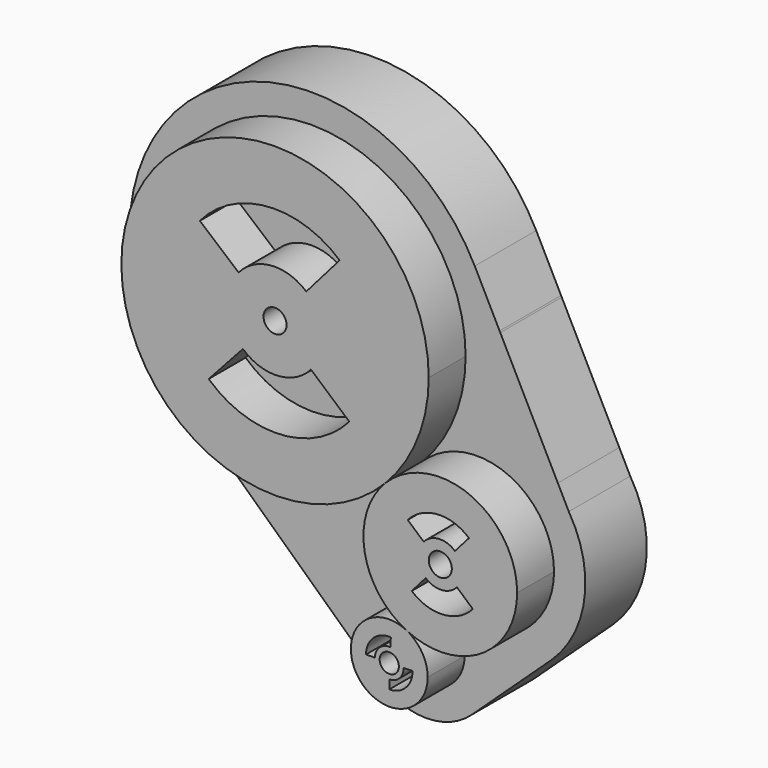
from build123d import *

# Parameters (mm, degrees)
F0_R     = 1.5
F1_DEPTH = 6
F0_R_2   = 1.25
F2_DEPTH = 10


with BuildPart() as f1:
    # F0 (on Front) → F1 (new body)
    with BuildSketch(Plane.XZ):
        with BuildLine():
            ThreePointArc((16.3580985837, 35.9408579887), (-22.1718407809, 43.466902577), (10.6939638692, 21.9951430011))
            ThreePointArc((10.6939638692, 21.9951430011), (14.8880379483, 28.4148134004), (16.3580985837, 35.9408579887))
        make_face()
        with BuildLine():
            ThreePointArc((6.0273938907, 27.5315641069), (-2.9016900494, 23.1477511551), (-12.2767915919, 26.4724807793))
            Line((-12.2767915919, 26.4724807793), (-7.8142975918, 31.3657192142))
            ThreePointArc((-7.8142975918, 31.3657192142), (-3.2842298057, 29.7592032207), (1.0303213842, 31.8774703929))
            Line((1.0303213842, 31.8774703929), (6.0273938907, 27.5315641069))
        make_face(mode=Mode.SUBTRACT)
        with Locations((-3.6419014163, 35.9408579887)):
            Circle(F0_R, mode=Mode.SUBTRACT)
        with BuildLine():
            Line((-8.3717686573, 39.9369986937), (-13.4304934995, 44.2109825557))
            ThreePointArc((-13.4304934995, 44.2109825557), (-4.624263657, 48.7176517866), (4.7673924656, 45.6101532957))
            Line((4.7673924656, 45.6101532957), (0.4214861795, 40.6130807892))
            ThreePointArc((0.4214861795, 40.6130807892), (-4.1165808127, 42.1146302652), (-8.3717686573, 39.9369986937))
        make_face(mode=Mode.SUBTRACT)
    extrude(amount=F1_DEPTH)


with BuildPart() as f1b:
    # F0 (on Front) → F1, piece 2 (new body)
    with BuildSketch(Plane.XZ):
        with BuildLine():
            ThreePointArc((13.435691954, 6.055194912), (23.1410041166, 6.529287036), (27.8618964924, 15.0222854872))
            ThreePointArc((27.8618964924, 15.0222854872), (21.6249187996, 24.2872551642), (10.6939638692, 21.9951430011))
            ThreePointArc((10.6939638692, 21.9951430011), (8.0066192055, 13.3271425439), (13.435691954, 6.055194912))
        make_face()
        with BuildLine():
            ThreePointArc((22.093804723, 11.2920162674), (18.2266093558, 9.392814797), (14.1466855378, 10.7771514154))
            Line((14.1466855378, 10.7771514154), (15.9656262669, 12.8555387151))
            ThreePointArc((15.9656262669, 12.8555387151), (18.0480485447, 12.1489634106), (20.0218927007, 13.1183294155))
            Line((20.0218927007, 13.1183294155), (22.093804723, 11.2920162674))
        make_face(mode=Mode.SUBTRACT)
        with Locations((17.8618964924, 15.0222854872)):
            Circle(F0_R, mode=Mode.SUBTRACT)
        with BuildLine():
            Line((21.5921657123, 19.2541937178), (19.7658525641, 17.1822816954))
            ThreePointArc((19.7658525641, 17.1822816954), (17.6803835082, 17.8959043518), (15.7012838619, 16.9255420131))
            Line((15.7012838619, 16.9255420131), (13.6287805547, 18.7511841427))
            ThreePointArc((13.6287805547, 18.7511841427), (17.5062725849, 20.6523376505), (21.5921657123, 19.2541937178))
        make_face(mode=Mode.SUBTRACT)
    extrude(amount=F1_DEPTH)


with BuildPart() as f1c:
    # F0 (on Front) → F1, piece 3 (new body)
    with BuildSketch(Plane.XZ):
        with BuildLine():
            ThreePointArc((16.2225897462, 1.5716495941), (15.4690889537, 4.2112034353), (13.435691954, 6.055194912))
            ThreePointArc((13.435691954, 6.055194912), (6.9760905387, -1.0679042471), (16.2225897462, 1.5716495941))
        make_face()
        with BuildLine():
            ThreePointArc((14.243500535, 1.6553022013), (13.3888888582, -0.5354925249), (11.2225897462, -1.4504191928))
            Line((11.2225897462, -1.4504191928), (11.2225897462, -0.2917109707))
            ThreePointArc((11.2225897462, -0.2917109707), (12.5582960526, 0.2724185686), (13.0852363074, 1.6232284893))
            Line((13.0852363074, 1.6232284893), (14.243500535, 1.6553022013))
        make_face(mode=Mode.SUBTRACT)
        with Locations((11.2225897462, 1.5716495941)):
            Circle(F0_R_2, mode=Mode.SUBTRACT)
        with BuildLine():
            Line((11.4274693125, 4.5867655315), (11.3489152971, 3.4307231402))
            ThreePointArc((11.3489152971, 3.4307231402), (9.950441456, 2.9331749601), (9.3592291814, 1.5716495941))
            Line((9.3592291814, 1.5716495941), (8.2005209593, 1.5716495941))
            ThreePointArc((8.2005209593, 1.5716495941), (9.1593714337, 3.7798230356), (11.4274693125, 4.5867655315))
        make_face(mode=Mode.SUBTRACT)
    extrude(amount=F1_DEPTH)


with BuildPart() as f2:
    # F0 (on Front) → F2 (new body)
    with BuildSketch(Plane.XZ):
        with BuildLine():
            Line((20.7791233288, 40.2880805518), (17.5451188249, 46.6727111977))
            ThreePointArc((17.5451188249, 46.6727111977), (-17.9128327561, 54.9251414541), (-19.8385976064, 18.5704943619))
            Line((-19.8385976064, 18.5704943619), (-10.2095571952, 9.5920615846))
            Line((-10.2095571952, 9.5920615846), (-7.1513450091, 12.8718821787))
            Line((-7.1513450091, 12.8718821787), (3.2381131314, 12.8718821787))
            Line((3.2381131314, 12.8718821787), (3.2381131314, 0))
            Line((3.2381131314, 0), (1.7682181228, -1.5764085769))
            Line((1.7682181228, -1.5764085769), (5.2553858867, -4.8279580579))
            ThreePointArc((5.2553858867, -4.8279580579), (11.2167692255, -7.17834847), (17.1812742584, -4.8358911888))
            Line((17.1812742584, -4.8358911888), (27.5374240602, 4.7947973267))
            ThreePointArc((27.5374240602, 4.7947973267), (31.8291700474, 13.2523653679), (29.7826724027, 22.5131098402))
            Line((29.7826724027, 22.5131098402), (28.3577955273, 25.3261277423))
            Line((28.3577955273, 25.3261277423), (20.8670881614, 28.5439335322))
            Line((20.8670881614, 28.5439335322), (20.8670881614, 40.1144187757))
            Line((20.8670881614, 40.1144187757), (20.7791233288, 40.2880805518))
        make_face()
        with BuildLine():
            ThreePointArc((16.2225897462, 1.5716495941), (6.9760905387, -1.0679042471), (13.435691954, 6.055194912))
            ThreePointArc((13.435691954, 6.055194912), (15.4690889537, 4.2112034353), (16.2225897462, 1.5716495941))
        make_face(mode=Mode.SUBTRACT)
        with BuildLine():
            ThreePointArc((10.6939638692, 21.9951430011), (21.6249187996, 24.2872551642), (27.8618964924, 15.0222854872))
            ThreePointArc((27.8618964924, 15.0222854872), (23.1410041166, 6.529287036), (13.435691954, 6.055194912))
            ThreePointArc((13.435691954, 6.055194912), (8.0066192055, 13.3271425439), (10.6939638692, 21.9951430011))
        make_face(mode=Mode.SUBTRACT)
        with BuildLine():
            ThreePointArc((16.3580985837, 35.9408579887), (14.8880379483, 28.4148134004), (10.6939638692, 21.9951430011))
            ThreePointArc((10.6939638692, 21.9951430011), (-22.1718407809, 43.466902577), (16.3580985837, 35.9408579887))
        make_face(mode=Mode.SUBTRACT)
        with BuildLine():
            ThreePointArc((16.3580985837, 35.9408579887), (-22.1718407809, 43.466902577), (10.6939638692, 21.9951430011))
            ThreePointArc((10.6939638692, 21.9951430011), (14.8880379483, 28.4148134004), (16.3580985837, 35.9408579887))
        make_face()
        with BuildLine():
            ThreePointArc((6.0273938907, 27.5315641069), (-2.9016900494, 23.1477511551), (-12.2767915919, 26.4724807793))
            Line((-12.2767915919, 26.4724807793), (-7.8142975918, 31.3657192142))
            ThreePointArc((-7.8142975918, 31.3657192142), (-3.2842298057, 29.7592032207), (1.0303213842, 31.8774703929))
            Line((1.0303213842, 31.8774703929), (6.0273938907, 27.5315641069))
        make_face(mode=Mode.SUBTRACT)
        with Locations((-3.6419014163, 35.9408579887)):
            Circle(F0_R, mode=Mode.SUBTRACT)
        with BuildLine():
            Line((-8.3717686573, 39.9369986937), (-13.4304934995, 44.2109825557))
            ThreePointArc((-13.4304934995, 44.2109825557), (-4.624263657, 48.7176517866), (4.7673924656, 45.6101532957))
            Line((4.7673924656, 45.6101532957), (0.4214861795, 40.6130807892))
            ThreePointArc((0.4214861795, 40.6130807892), (-4.1165808127, 42.1146302652), (-8.3717686573, 39.9369986937))
        make_face(mode=Mode.SUBTRACT)
        with BuildLine():
            ThreePointArc((13.435691954, 6.055194912), (23.1410041166, 6.529287036), (27.8618964924, 15.0222854872))
            ThreePointArc((27.8618964924, 15.0222854872), (21.6249187996, 24.2872551642), (10.6939638692, 21.9951430011))
            ThreePointArc((10.6939638692, 21.9951430011), (8.0066192055, 13.3271425439), (13.435691954, 6.055194912))
        make_face()
        with BuildLine():
            ThreePointArc((22.093804723, 11.2920162674), (18.2266093558, 9.392814797), (14.1466855378, 10.7771514154))
            Line((14.1466855378, 10.7771514154), (15.9656262669, 12.8555387151))
            ThreePointArc((15.9656262669, 12.8555387151), (18.0480485447, 12.1489634106), (20.0218927007, 13.1183294155))
            Line((20.0218927007, 13.1183294155), (22.093804723, 11.2920162674))
        make_face(mode=Mode.SUBTRACT)
        with Locations((17.8618964924, 15.0222854872)):
            Circle(F0_R, mode=Mode.SUBTRACT)
        with BuildLine():
            Line((21.5921657123, 19.2541937178), (19.7658525641, 17.1822816954))
            ThreePointArc((19.7658525641, 17.1822816954), (17.6803835082, 17.8959043518), (15.7012838619, 16.9255420131))
            Line((15.7012838619, 16.9255420131), (13.6287805547, 18.7511841427))
            ThreePointArc((13.6287805547, 18.7511841427), (17.5062725849, 20.6523376505), (21.5921657123, 19.2541937178))
        make_face(mode=Mode.SUBTRACT)
        Polygon((-7.1513450091, 12.8718821787), (-10.2095571952, 9.5920615846), (1.7682181228, -1.5764085769), (3.2381131314, 0), (3.2381131314, 12.8718821787), align=None)
        with BuildLine():
            Line((-7.8142975918, 31.3657192142), (-12.2767915919, 26.4724807793))
            ThreePointArc((-12.2767915919, 26.4724807793), (-2.9016900494, 23.1477511551), (6.0273938907, 27.5315641069))
            Line((6.0273938907, 27.5315641069), (1.0303213842, 31.8774703929))
            ThreePointArc((1.0303213842, 31.8774703929), (-3.2842298057, 29.7592032207), (-7.8142975918, 31.3657192142))
        make_face()
        with BuildLine():
            ThreePointArc((4.7673924656, 45.6101532957), (-4.624263657, 48.7176517866), (-13.4304934995, 44.2109825557))
            Line((-13.4304934995, 44.2109825557), (-8.3717686573, 39.9369986937))
            ThreePointArc((-8.3717686573, 39.9369986937), (-4.1165808127, 42.1146302652), (0.4214861795, 40.6130807892))
            Line((0.4214861795, 40.6130807892), (4.7673924656, 45.6101532957))
        make_face()
        with BuildLine():
            ThreePointArc((16.2225897462, 1.5716495941), (15.4690889537, 4.2112034353), (13.435691954, 6.055194912))
            ThreePointArc((13.435691954, 6.055194912), (6.9760905387, -1.0679042471), (16.2225897462, 1.5716495941))
        make_face()
        with BuildLine():
            ThreePointArc((14.243500535, 1.6553022013), (13.3888888582, -0.5354925249), (11.2225897462, -1.4504191928))
            Line((11.2225897462, -1.4504191928), (11.2225897462, -0.2917109707))
            ThreePointArc((11.2225897462, -0.2917109707), (12.5582960526, 0.2724185686), (13.0852363074, 1.6232284893))
            Line((13.0852363074, 1.6232284893), (14.243500535, 1.6553022013))
        make_face(mode=Mode.SUBTRACT)
        with Locations((11.2225897462, 1.5716495941)):
            Circle(F0_R_2, mode=Mode.SUBTRACT)
        with BuildLine():
            Line((11.4274693125, 4.5867655315), (11.3489152971, 3.4307231402))
            ThreePointArc((11.3489152971, 3.4307231402), (9.950441456, 2.9331749601), (9.3592291814, 1.5716495941))
            Line((9.3592291814, 1.5716495941), (8.2005209593, 1.5716495941))
            ThreePointArc((8.2005209593, 1.5716495941), (9.1593714337, 3.7798230356), (11.4274693125, 4.5867655315))
        make_face(mode=Mode.SUBTRACT)
        Polygon((28.3577955273, 25.3261277423), (20.8670881614, 40.1144187757), (20.8670881614, 28.5439335322), align=None)
        with BuildLine():
            ThreePointArc((15.7012838619, 16.9255420131), (17.6803835082, 17.8959043518), (19.7658525641, 17.1822816954))
            Line((19.7658525641, 17.1822816954), (21.5921657123, 19.2541937178))
            ThreePointArc((21.5921657123, 19.2541937178), (17.5062725849, 20.6523376505), (13.6287805547, 18.7511841427))
            Line((13.6287805547, 18.7511841427), (15.7012838619, 16.9255420131))
        make_face()
        with BuildLine():
            Line((15.9656262669, 12.8555387151), (14.1466855378, 10.7771514154))
            ThreePointArc((14.1466855378, 10.7771514154), (18.2266093558, 9.392814797), (22.093804723, 11.2920162674))
            Line((22.093804723, 11.2920162674), (20.0218927007, 13.1183294155))
            ThreePointArc((20.0218927007, 13.1183294155), (18.0480485447, 12.1489634106), (15.9656262669, 12.8555387151))
        make_face()
        with Locations((17.8618964924, 15.0222854872)):
            Circle(F0_R)
        with Locations((-3.6419014163, 35.9408579887)):
            Circle(F0_R)
        with Locations((11.2225897462, 1.5716495941)):
            Circle(F0_R_2)
        with BuildLine():
            ThreePointArc((9.3592291814, 1.5716495941), (9.950441456, 2.9331749601), (11.3489152971, 3.4307231402))
            Line((11.3489152971, 3.4307231402), (11.4274693125, 4.5867655315))
            ThreePointArc((11.4274693125, 4.5867655315), (9.1593714337, 3.7798230356), (8.2005209593, 1.5716495941))
            Line((8.2005209593, 1.5716495941), (9.3592291814, 1.5716495941))
        make_face()
        with BuildLine():
            Line((11.2225897462, -0.2917109707), (11.2225897462, -1.4504191928))
            ThreePointArc((11.2225897462, -1.4504191928), (13.3888888582, -0.5354925249), (14.243500535, 1.6553022013))
            Line((14.243500535, 1.6553022013), (13.0852363074, 1.6232284893))
            ThreePointArc((13.0852363074, 1.6232284893), (12.5582960526, 0.2724185686), (11.2225897462, -0.2917109707))
        make_face()
    extrude(amount=-F2_DEPTH)


solid = Compound([f1.part, f1b.part, f1c.part, f2.part])
